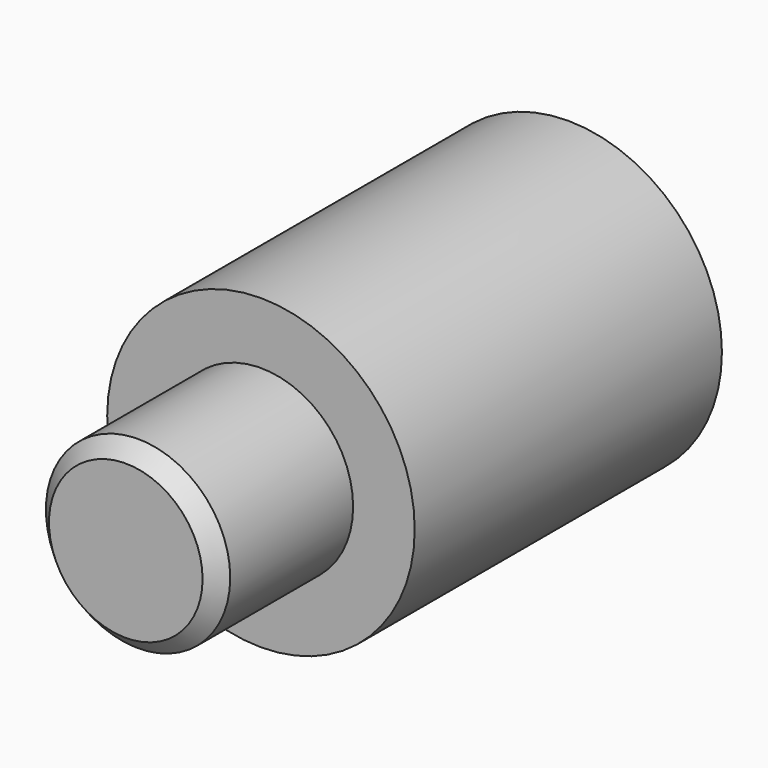
from build123d import *

# Parameters (mm, degrees)
F0_R     = 10.01
F1_DEPTH = 25
F2_R     = 6
F3_DEPTH = 11
F4_SIZE2 = 1
F4_SIZE  = 1


with BuildPart() as f1:
    # F0 (on Front) → F1 (new body)
    with BuildSketch(Plane.XZ):
        Circle(F0_R)
    extrude(amount=F1_DEPTH)

    # F2 (on face) → F3 (join)
    with BuildSketch(Plane.XZ.offset(25)):
        Circle(F2_R)
    extrude(amount=F3_DEPTH)

    # F4
    f4_edges = [f1.edges().sort_by_distance(p)[0] for p in [
        (-6, -36, 0),
    ]]
    chamfer(f4_edges, length=F4_SIZE, length2=F4_SIZE2)


solid = f1.part
